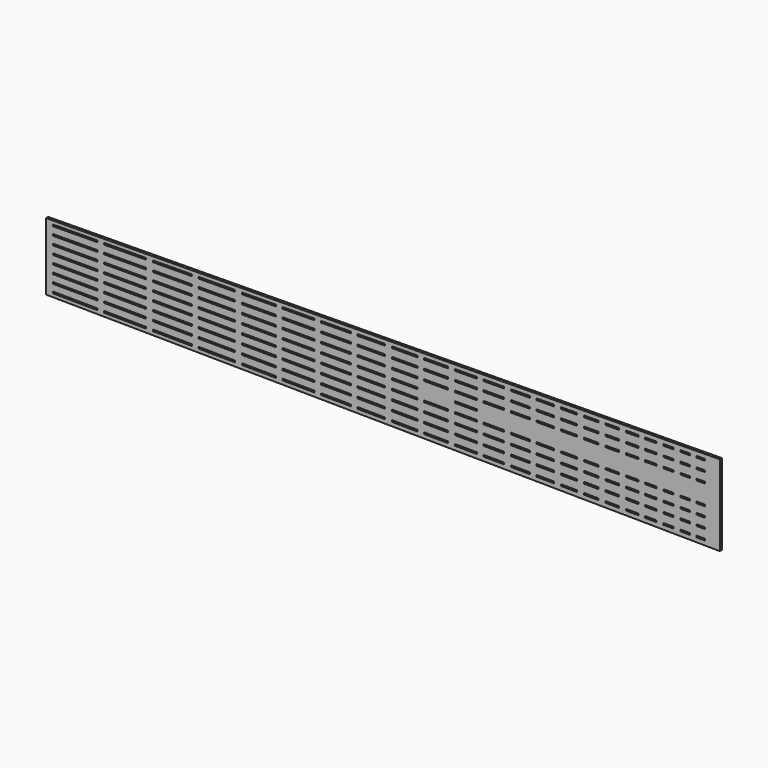
from build123d import *

# Parameters (mm, degrees)
F2_DEPTH = 2.54
F3_DEPTH = 2.541


with BuildPart() as f2:
    # F1 (on Front) → F2 (new body)
    with BuildSketch(Plane.XZ):
        Polygon((0, 63.5), (0, 0), (635, -6.35), (635, 69.85), align=None)
    extrude(amount=F2_DEPTH)

    # F0 (on Front) → F3 (cut, through all)
    with BuildSketch(Plane.XZ):
        Polygon((6.356313, 4.676161), (6.349766, 3.914189), (6.343218, 3.152218), (48.462077, 2.79031), (48.468624, 3.552282), (48.475172, 4.314254), align=None)
        Polygon((54.824937, 4.259693), (54.81839, 3.497721), (54.811843, 2.735749), (94.209598, 2.397223), (94.216146, 3.159195), (94.222693, 3.921167), align=None)
        Polygon((100.572458, 3.866606), (100.565911, 3.104634), (100.559364, 2.342662), (137.390595, 2.026189), (137.397142, 2.78816), (137.40369, 3.550132), align=None)
        Polygon((143.753455, 3.495572), (143.746908, 2.7336), (143.740361, 1.971628), (178.139784, 1.67605), (178.146331, 2.438022), (178.152879, 3.199994), align=None)
        Polygon((184.502644, 3.145433), (184.496097, 2.383461), (184.48955, 1.621489), (216.616925, 1.345434), (216.623473, 2.107406), (216.63002, 2.869377), align=None)
        Polygon((222.979785, 2.814817), (222.973238, 2.052845), (222.966691, 1.290873), (252.92651, 1.033442), (252.933058, 1.795414), (252.939605, 2.557386), align=None)
        Polygon((259.289371, 2.502826), (259.282823, 1.740854), (259.276276, 0.978882), (287.198939, 0.738955), (287.205486, 1.500927), (287.212033, 2.262899), align=None)
        Polygon((293.561799, 2.208339), (293.555251, 1.446367), (293.548704, 0.684395), (319.547337, 0.461001), (319.553884, 1.222973), (319.560431, 1.984945), align=None)
        Polygon((325.910197, 1.930384), (325.90365, 1.168412), (325.897102, 0.40644), (350.080515, 0.198643), (350.087062, 0.960615), (350.093609, 1.722587), align=None)
        Polygon((356.443375, 1.668027), (356.436828, 0.906055), (356.43028, 0.144083), (378.900374, -0.048992), (378.906921, 0.71298), (378.913468, 1.474952), align=None)
        Polygon((385.263234, 1.420391), (385.256687, 0.658419), (385.250139, -0.103553), (406.101906, -0.282722), (406.108453, 0.47925), (406.115001, 1.241222), align=None)
        Polygon((412.464766, 1.186661), (412.458219, 0.424689), (412.451672, -0.337283), (431.777513, -0.503341), (431.784061, 0.258631), (431.790608, 1.020603), align=None)
        Polygon((438.140374, 0.966042), (438.133826, 0.204071), (438.127279, -0.557901), (456.011826, -0.711575), (456.018373, 0.050397), (456.02492, 0.812369), align=None)
        Polygon((462.374686, 0.757808), (462.368138, -0.004164), (462.361591, -0.766135), (478.886018, -0.908122), (478.892565, -0.14615), (478.899112, 0.615822), align=None)
        Polygon((485.248878, 0.561261), (485.242331, -0.200711), (485.235784, -0.962683), (500.476085, -1.093635), (500.482632, -0.331664), (500.489179, 0.430308), align=None)
        Polygon((506.838945, 0.375748), (506.832397, -0.386224), (506.82585, -1.148196), (520.854565, -1.268738), (520.861112, -0.506766), (520.86766, 0.255205), align=None)
        Polygon((527.217425, 0.200645), (527.210878, -0.561327), (527.204331, -1.323299), (540.088818, -1.434009), (540.095365, -0.672037), (540.101912, 0.089935), align=None)
        Polygon((546.451678, 0.035374), (546.445131, -0.726598), (546.438583, -1.48857), (558.244474, -1.590012), (558.251021, -0.82804), (558.257569, -0.066069), align=None)
        Polygon((564.607334, -0.120629), (564.600787, -0.882601), (564.59424, -1.644573), (575.380256, -1.737252), (575.386804, -0.97528), (575.393351, -0.213308), align=None)
        Polygon((581.743116, -0.267869), (581.736569, -1.029841), (581.730022, -1.791813), (591.554887, -1.876233), (591.561434, -1.114261), (591.567982, -0.352289), align=None)
        Polygon((597.917747, -0.40685), (597.9112, -1.168822), (597.904653, -1.930794), (606.821044, -2.007408), (606.827592, -1.245436), (606.834139, -0.483464), align=None)
        Polygon((613.183905, -0.538025), (613.177357, -1.299997), (613.17081, -2.061969), (621.231406, -2.13123), (621.237953, -1.369258), (621.2445, -0.607286), align=None)
        Polygon((6.354557, 12.629264), (6.34988, 11.867278), (6.345204, 11.105293), (48.464824, 10.846787), (48.469501, 11.608773), (48.474177, 12.370758), align=None)
        Polygon((54.824058, 12.331786), (54.819381, 11.569801), (54.814705, 10.807815), (94.213173, 10.566011), (94.217849, 11.327996), (94.222526, 12.089982), align=None)
        Polygon((100.572406, 12.05101), (100.56773, 11.289024), (100.563053, 10.527039), (137.39495, 10.300986), (137.399627, 11.062972), (137.404303, 11.824957), align=None)
        Polygon((143.754184, 11.785986), (143.749507, 11.024), (143.74483, 10.262014), (178.144876, 10.050887), (178.149552, 10.812873), (178.154229, 11.574858), align=None)
        Polygon((184.504109, 11.535886), (184.499433, 10.773901), (184.494756, 10.011915), (216.622713, 9.814733), (216.627389, 10.576718), (216.632066, 11.338704), align=None)
        Polygon((222.981946, 11.299732), (222.97727, 10.537746), (222.972593, 9.775761), (252.932954, 9.591882), (252.937631, 10.353867), (252.942308, 11.115853), align=None)
        Polygon((259.292188, 11.076881), (259.287511, 10.314896), (259.282835, 9.55291), (287.206002, 9.381534), (287.210679, 10.14352), (287.215355, 10.905505), align=None)
        Polygon((293.565236, 10.866533), (293.560559, 10.104548), (293.555883, 9.342562), (319.554985, 9.182995), (319.559662, 9.94498), (319.564339, 10.706966), align=None)
        Polygon((325.914219, 10.667994), (325.909542, 9.906009), (325.904866, 9.144023), (350.088715, 8.995597), (350.093392, 9.757582), (350.098069, 10.519568), align=None)
        Polygon((356.447949, 10.480596), (356.443272, 9.718611), (356.438596, 8.956625), (378.909095, 8.818714), (378.913772, 9.5807), (378.918449, 10.342685), align=None)
        Polygon((385.268329, 10.303714), (385.263652, 9.541728), (385.258976, 8.779742), (406.11112, 8.651764), (406.115796, 9.41375), (406.120473, 10.175735), align=None)
        Polygon((412.470353, 10.136764), (412.465677, 9.374778), (412.461, 8.612792), (431.787191, 8.494179), (431.791868, 9.256165), (431.796544, 10.018151), align=None)
        Polygon((438.146425, 9.979179), (438.141748, 9.217193), (438.137072, 8.455208), (456.021941, 8.345441), (456.026618, 9.107426), (456.031295, 9.869412), align=None)
        Polygon((462.381175, 9.83044), (462.376499, 9.068455), (462.371822, 8.306469), (478.896547, 8.20505), (478.901224, 8.967036), (478.905901, 9.729021), align=None)
        Polygon((485.255781, 9.690049), (485.251105, 8.928064), (485.246428, 8.166078), (500.487004, 8.07254), (500.491681, 8.834526), (500.496358, 9.596512), align=None)
        Polygon((506.846238, 9.55754), (506.841561, 8.795554), (506.836885, 8.033569), (520.865853, 7.947467), (520.87053, 8.709453), (520.875207, 9.471438), align=None)
        Polygon((527.225087, 9.432466), (527.22041, 8.670481), (527.215734, 7.908495), (540.100454, 7.829416), (540.105131, 8.591402), (540.109807, 9.353388), align=None)
        Polygon((546.459688, 9.314416), (546.455011, 8.55243), (546.450334, 7.790444), (558.256438, 7.717985), (558.261115, 8.479971), (558.265792, 9.241957), align=None)
        Polygon((564.615672, 9.202985), (564.610995, 8.440999), (564.606319, 7.679014), (575.39253, 7.612814), (575.397207, 8.3748), (575.401884, 9.136786), align=None)
        Polygon((581.751764, 9.097814), (581.747088, 8.335828), (581.742411, 7.573842), (591.567454, 7.513542), (591.57213, 8.275528), (591.576807, 9.037513), align=None)
        Polygon((597.926688, 8.998541), (597.922011, 8.236556), (597.917334, 7.47457), (606.833887, 7.419846), (606.838564, 8.181831), (606.84324, 8.943817), align=None)
        Polygon((613.193121, 8.904845), (613.188444, 8.142859), (613.183768, 7.380874), (621.244509, 7.331402), (621.249186, 8.093387), (621.253862, 8.855373), align=None)
        Polygon((6.352763, 20.582362), (6.349957, 19.820367), (6.347151, 19.058372), (48.467279, 18.903269), (48.470085, 19.665264), (48.472891, 20.427258), align=None)
        Polygon((54.822848, 20.403875), (54.820042, 19.64188), (54.817236, 18.879886), (94.216179, 18.734803), (94.218985, 19.496798), (94.221791, 20.258793), align=None)
        Polygon((100.571748, 20.235409), (100.568942, 19.473415), (100.566136, 18.71142), (137.398477, 18.575788), (137.401283, 19.337783), (137.404089, 20.099778), align=None)
        Polygon((143.754046, 20.076395), (143.75124, 19.3144), (143.748434, 18.552405), (178.148894, 18.425729), (178.1517, 19.187724), (178.154506, 19.949718), align=None)
        Polygon((184.504463, 19.926335), (184.501657, 19.164341), (184.498851, 18.402346), (216.627194, 18.284036), (216.63, 19.046031), (216.632806, 19.808026), align=None)
        Polygon((222.982763, 19.784643), (222.979957, 19.022648), (222.977151, 18.260653), (252.937874, 18.150326), (252.94068, 18.91232), (252.943486, 19.674315), align=None)
        Polygon((259.293443, 19.650932), (259.290637, 18.888937), (259.287831, 18.126942), (287.211335, 18.024117), (287.214141, 18.786112), (287.216947, 19.548107), align=None)
        Polygon((293.566904, 19.524723), (293.564098, 18.762729), (293.561292, 18.000734), (319.560708, 17.904993), (319.563514, 18.666988), (319.56632, 19.428983), align=None)
        Polygon((325.916277, 19.4056), (325.913471, 18.643605), (325.910665, 17.88161), (350.094806, 17.792555), (350.097612, 18.554549), (350.100418, 19.316544), align=None)
        Polygon((356.450375, 19.293161), (356.447569, 18.531166), (356.444763, 17.769171), (378.915533, 17.686425), (378.918339, 18.44842), (378.921145, 19.210415), align=None)
        Polygon((385.271102, 19.187032), (385.268296, 18.425037), (385.26549, 17.663042), (406.117885, 17.586255), (406.120691, 18.34825), (406.123497, 19.110245), align=None)
        Polygon((412.473454, 19.086862), (412.470648, 18.324867), (412.467842, 17.562872), (431.794266, 17.491704), (431.797072, 18.253699), (431.799878, 19.015694), align=None)
        Polygon((438.149835, 18.992311), (438.147029, 18.230316), (438.144223, 17.468321), (456.029309, 17.402461), (456.032115, 18.164456), (456.034921, 18.926451), align=None)
        Polygon((462.384878, 18.903068), (462.382072, 18.141073), (462.379266, 17.379078), (478.904191, 17.318226), (478.906997, 18.080221), (478.909803, 18.842216), align=None)
        Polygon((485.25976, 18.818833), (485.256954, 18.056838), (485.254148, 17.294843), (500.494908, 17.238721), (500.497714, 18.000716), (500.50052, 18.76271), align=None)
        Polygon((506.850477, 18.739327), (506.847671, 17.977332), (506.844865, 17.215338), (520.874002, 17.163677), (520.876808, 17.925672), (520.879614, 18.687666), align=None)
        Polygon((527.229571, 18.664283), (527.226765, 17.902288), (527.223959, 17.140294), (540.108835, 17.092846), (540.111641, 17.854841), (540.114447, 18.616836), align=None)
        Polygon((546.464404, 18.593453), (546.461598, 17.831458), (546.458792, 17.069463), (558.265038, 17.025988), (558.267844, 17.787983), (558.27065, 18.549978), align=None)
        Polygon((564.620607, 18.526594), (564.617801, 17.7646), (564.614995, 17.002605), (575.401337, 16.962885), (575.404143, 17.72488), (575.406949, 18.486875), align=None)
        Polygon((581.756906, 18.463492), (581.7541, 17.701497), (581.751294, 16.939502), (591.576455, 16.903322), (591.579261, 17.665317), (591.582067, 18.427311), align=None)
        Polygon((597.932024, 18.403928), (597.929218, 17.641934), (597.926412, 16.879939), (606.843072, 16.847104), (606.845878, 17.609099), (606.848684, 18.371094), align=None)
        Polygon((613.198641, 18.34771), (613.195835, 17.585716), (613.193029, 16.823721), (621.253868, 16.794038), (621.256674, 17.556032), (621.25948, 18.318027), align=None)
        Polygon((6.350931, 28.535455), (6.349995, 27.773456), (6.34906, 27.011456), (48.469442, 26.959755), (48.470377, 27.721755), (48.471312, 28.483754), align=None)
        Polygon((54.821308, 28.47596), (54.820372, 27.71396), (54.819437, 26.951961), (94.218617, 26.9036), (94.219553, 27.665599), (94.220488, 28.427599), align=None)
        Polygon((100.570483, 28.419804), (100.569548, 27.657805), (100.568613, 26.895805), (137.401176, 26.850595), (137.402111, 27.612594), (137.403046, 28.374594), align=None)
        Polygon((143.753041, 28.366799), (143.752106, 27.6048), (143.751171, 26.842801), (178.151838, 26.800575), (178.152773, 27.562575), (178.153709, 28.324574), align=None)
        Polygon((184.503704, 28.31678), (184.502769, 27.55478), (184.501833, 26.792781), (216.630371, 26.753344), (216.631306, 27.515344), (216.632241, 28.277343), align=None)
        Polygon((222.982237, 28.269549), (222.981301, 27.507549), (222.980366, 26.74555), (252.941269, 26.708774), (252.942204, 27.470773), (252.94314, 28.232773), align=None)
        Polygon((259.293135, 28.224979), (259.292199, 27.462979), (259.291264, 26.70098), (287.214936, 26.666704), (287.215872, 27.428704), (287.216807, 28.190703), align=None)
        Polygon((293.566802, 28.182909), (293.565867, 27.42091), (293.564932, 26.65891), (319.564504, 26.626997), (319.56544, 27.388996), (319.566375, 28.150996), align=None)
        Polygon((325.91637, 28.143201), (325.915435, 27.381202), (325.9145, 26.619202), (350.098787, 26.589517), (350.099722, 27.351516), (350.100657, 28.113516), align=None)
        Polygon((356.450652, 28.105722), (356.449717, 27.343722), (356.448782, 26.581723), (378.919688, 26.554141), (378.920623, 27.31614), (378.921558, 28.078139), align=None)
        Polygon((385.271553, 28.070345), (385.270618, 27.308346), (385.269683, 26.546346), (406.122204, 26.520751), (406.123139, 27.28275), (406.124074, 28.044749), align=None)
        Polygon((412.474069, 28.036955), (412.473134, 27.274956), (412.472199, 26.512956), (431.798739, 26.489234), (431.799675, 27.251233), (431.80061, 28.013232), align=None)
        Polygon((438.150605, 28.005438), (438.14967, 27.243439), (438.148735, 26.481439), (456.033928, 26.459486), (456.034863, 27.221485), (456.035799, 27.983485), align=None)
        Polygon((462.385794, 27.97569), (462.384858, 27.213691), (462.383923, 26.451691), (478.908947, 26.431408), (478.909883, 27.193407), (478.910818, 27.955407), align=None)
        Polygon((485.260813, 27.947612), (485.259878, 27.185613), (485.258943, 26.423613), (500.499795, 26.404906), (500.50073, 27.166905), (500.501665, 27.928905), align=None)
        Polygon((506.851661, 27.92111), (506.850725, 27.159111), (506.84979, 26.397111), (520.879012, 26.379891), (520.879948, 27.141891), (520.880883, 27.90389), align=None)
        Polygon((527.230878, 27.896096), (527.229943, 27.134096), (527.229007, 26.372097), (540.113961, 26.356281), (540.114896, 27.11828), (540.115831, 27.88028), align=None)
        Polygon((546.465826, 27.872485), (546.464891, 27.110486), (546.463956, 26.348487), (558.270273, 26.333995), (558.271209, 27.095994), (558.272144, 27.857994), align=None)
        Polygon((564.622139, 27.850199), (564.621204, 27.0882), (564.620269, 26.3262), (575.406675, 26.312961), (575.407611, 27.07496), (575.408546, 27.836959), align=None)
        Polygon((581.758541, 27.829165), (581.757606, 27.067166), (581.75667, 26.305166), (591.581891, 26.293106), (591.582826, 27.055106), (591.583762, 27.817105), align=None)
        Polygon((597.933757, 27.809311), (597.932822, 27.047311), (597.931886, 26.285312), (606.8486, 26.274367), (606.849536, 27.036366), (606.850471, 27.798366), align=None)
        Polygon((613.200466, 27.790571), (613.199531, 27.028572), (613.198596, 26.266572), (621.259483, 26.256678), (621.260418, 27.018677), (621.261353, 27.780677), align=None)
        Polygon((216.63, 44.453969), (216.627194, 45.215964), (184.498851, 45.097654), (184.501657, 44.335659), (184.504463, 43.573665), (216.632806, 43.691974), align=None)
        Polygon((94.216146, 60.340805), (94.209598, 61.102777), (54.811843, 60.764251), (54.81839, 60.002279), (54.824937, 59.240307), (94.222693, 59.578833), align=None)
        Polygon((48.468624, 59.947718), (48.462077, 60.70969), (6.343218, 60.347782), (6.349766, 59.585811), (6.356313, 58.823839), (48.475172, 59.185746), align=None)
        Polygon((184.504109, 51.964114), (216.632066, 52.161296), (216.627389, 52.923282), (216.622713, 53.685267), (184.494756, 53.488085), (184.499433, 52.726099), align=None)
        Polygon((325.914219, 52.832006), (350.098069, 52.980432), (350.093392, 53.742418), (350.088715, 54.504403), (325.904866, 54.355977), (325.909542, 53.593991), align=None)
        Polygon((356.438596, 54.543375), (356.443272, 53.781389), (356.447949, 53.019404), (378.918449, 53.157315), (378.913772, 53.9193), (378.909095, 54.681286), align=None)
        Polygon((6.347151, 44.441628), (6.349957, 43.679633), (6.352763, 42.917638), (48.472891, 43.072742), (48.470085, 43.834736), (48.467279, 44.596731), align=None)
        Polygon((100.559364, 61.157338), (100.565911, 60.395366), (100.572458, 59.633394), (137.40369, 59.949868), (137.397142, 60.71184), (137.390595, 61.473811), align=None)
        Polygon((325.910665, 45.61839), (325.913471, 44.856395), (325.916277, 44.0944), (350.100418, 44.183456), (350.097612, 44.945451), (350.094806, 45.707445), align=None)
        Polygon((319.559662, 53.55502), (319.554985, 54.317005), (293.555883, 54.157438), (293.560559, 53.395452), (293.565236, 52.633467), (319.564339, 52.793034), align=None)
        Polygon((540.105131, 54.908598), (540.100454, 55.670584), (527.215734, 55.591505), (527.22041, 54.829519), (527.225087, 54.067534), (540.109807, 54.146612), align=None)
        Polygon((54.824058, 51.168214), (94.222526, 51.410018), (94.217849, 52.172004), (94.213173, 52.933989), (54.814705, 52.692185), (54.819381, 51.930199), align=None)
        Polygon((412.467842, 45.937128), (412.470648, 45.175133), (412.473454, 44.413138), (431.799878, 44.484306), (431.797072, 45.246301), (431.794266, 46.008296), align=None)
        Polygon((520.87053, 54.790547), (520.865853, 55.552533), (506.836885, 55.466431), (506.841561, 54.704446), (506.846238, 53.94246), (520.875207, 54.028562), align=None)
        Polygon((259.292188, 52.423119), (287.215355, 52.594495), (287.210679, 53.35648), (287.206002, 54.118466), (259.282835, 53.94709), (259.287511, 53.185104), align=None)
        Polygon((546.450334, 55.709556), (546.455011, 54.94757), (546.459688, 54.185584), (558.265792, 54.258043), (558.261115, 55.020029), (558.256438, 55.782015), align=None)
        Polygon((606.838564, 55.318169), (606.833887, 56.080154), (597.917334, 56.02543), (597.922011, 55.263444), (597.926688, 54.501459), (606.84324, 54.556183), align=None)
        Polygon((613.193029, 46.676279), (613.195835, 45.914284), (613.198641, 45.15229), (621.25948, 45.181973), (621.256674, 45.943968), (621.253868, 46.705962), align=None)
        Polygon((184.501833, 36.707219), (184.502769, 35.94522), (184.503704, 35.18322), (216.632241, 35.222657), (216.631306, 35.984656), (216.630371, 36.746656), align=None)
        Polygon((462.384878, 44.596932), (478.909803, 44.657784), (478.906997, 45.419779), (478.904191, 46.181774), (462.379266, 46.120922), (462.382072, 45.358927), align=None)
        Polygon((178.149552, 52.687127), (178.144876, 53.449113), (143.74483, 53.237986), (143.749507, 52.476), (143.754184, 51.714014), (178.154229, 51.925142), align=None)
        Polygon((6.354557, 50.870736), (48.474177, 51.129242), (48.469501, 51.891227), (48.464824, 52.653213), (6.345204, 52.394707), (6.34988, 51.632722), align=None)
        Polygon((178.152773, 35.937425), (178.151838, 36.699425), (143.751171, 36.657199), (143.752106, 35.8952), (143.753041, 35.133201), (178.153709, 35.175426), align=None)
        Polygon((478.901224, 54.532964), (478.896547, 55.29495), (462.371822, 55.193531), (462.376499, 54.431545), (462.381175, 53.66956), (478.905901, 53.770979), align=None)
        Polygon((100.571748, 43.264591), (137.404089, 43.400222), (137.401283, 44.162217), (137.398477, 44.924212), (100.566136, 44.78858), (100.568942, 44.026585), align=None)
        Polygon((293.561292, 45.499266), (293.564098, 44.737271), (293.566904, 43.975277), (319.56632, 44.071017), (319.563514, 44.833012), (319.560708, 45.595007), align=None)
        Polygon((259.287831, 45.373058), (259.290637, 44.611063), (259.293443, 43.849068), (287.216947, 43.951893), (287.214141, 44.713888), (287.211335, 45.475883), align=None)
        Polygon((222.977151, 45.239347), (222.979957, 44.477352), (222.982763, 43.715357), (252.943486, 43.825685), (252.94068, 44.58768), (252.937874, 45.349674), align=None)
        Polygon((606.845878, 45.890901), (606.843072, 46.652896), (597.926412, 46.620061), (597.929218, 45.858066), (597.932024, 45.096072), (606.848684, 45.128906), align=None)
        Polygon((54.817236, 44.620114), (54.820042, 43.85812), (54.822848, 43.096125), (94.221791, 43.241207), (94.218985, 44.003202), (94.216179, 44.765197), align=None)
        Polygon((581.730022, 65.291813), (581.736569, 64.529841), (581.743116, 63.767869), (591.567982, 63.852289), (591.561434, 64.614261), (591.554887, 65.376233), align=None)
        Polygon((184.502644, 60.354567), (216.63002, 60.630623), (216.623473, 61.392594), (216.616925, 62.154566), (184.48955, 61.878511), (184.496097, 61.116539), align=None)
        Polygon((54.821308, 35.02404), (94.220488, 35.072401), (94.219553, 35.834401), (94.218617, 36.5964), (54.819437, 36.548039), (54.820372, 35.78604), align=None)
        Polygon((143.748434, 44.947595), (143.75124, 44.1856), (143.754046, 43.423605), (178.154506, 43.550282), (178.1517, 44.312276), (178.148894, 45.074271), align=None)
        Polygon((575.404143, 45.77512), (575.401337, 46.537115), (564.614995, 46.497395), (564.617801, 45.7354), (564.620607, 44.973406), (575.406949, 45.013125), align=None)
        Polygon((500.491681, 54.665474), (500.487004, 55.42746), (485.246428, 55.333922), (485.251105, 54.571936), (485.255781, 53.809951), (500.496358, 53.903488), align=None)
        Polygon((438.137072, 55.044792), (438.141748, 54.282807), (438.146425, 53.520821), (456.031295, 53.630588), (456.026618, 54.392574), (456.021941, 55.154559), align=None)
        Polygon((412.470353, 53.363236), (431.796544, 53.481849), (431.791868, 54.243835), (431.787191, 55.005821), (412.461, 54.887208), (412.465677, 54.125222), align=None)
        Polygon((575.386804, 64.47528), (575.380256, 65.237252), (564.59424, 65.144573), (564.600787, 64.382601), (564.607334, 63.620629), (575.393351, 63.713308), align=None)
        Polygon((6.350931, 34.964545), (48.471312, 35.016246), (48.470377, 35.778245), (48.469442, 36.540245), (6.34906, 36.488544), (6.349995, 35.726544), align=None)
        Polygon((456.032115, 45.335544), (456.029309, 46.097539), (438.144223, 46.031679), (438.147029, 45.269684), (438.149835, 44.507689), (456.034921, 44.573549), align=None)
        Polygon((137.402111, 35.887406), (137.401176, 36.649405), (100.568613, 36.604195), (100.569548, 35.842195), (100.570483, 35.080196), (137.403046, 35.125406), align=None)
        Polygon((385.250139, 63.603553), (385.256687, 62.841581), (385.263234, 62.079609), (406.115001, 62.258778), (406.108453, 63.02075), (406.101906, 63.782722), align=None)
        Polygon((293.548704, 62.815605), (293.555251, 62.053633), (293.561799, 61.291661), (319.560431, 61.515055), (319.553884, 62.277027), (319.547337, 63.038999), align=None)
        Polygon((385.258976, 54.720258), (385.263652, 53.958272), (385.268329, 53.196286), (406.120473, 53.324265), (406.115796, 54.08625), (406.11112, 54.848236), align=None)
        Polygon((100.563053, 52.972961), (100.56773, 52.210976), (100.572406, 51.44899), (137.404303, 51.675043), (137.399627, 52.437028), (137.39495, 53.199014), align=None)
        Polygon((613.183768, 56.119126), (613.188444, 55.357141), (613.193121, 54.595155), (621.253862, 54.644627), (621.249186, 55.406613), (621.244509, 56.168598), align=None)
        Polygon((606.827592, 64.745436), (606.821044, 65.507408), (597.904653, 65.430794), (597.9112, 64.668822), (597.917747, 63.90685), (606.834139, 63.983464), align=None)
        Polygon((520.861112, 64.006766), (520.854565, 64.768738), (506.82585, 64.648196), (506.832397, 63.886224), (506.838945, 63.124252), (520.86766, 63.244795), align=None)
        Polygon((527.223959, 46.359706), (527.226765, 45.597712), (527.229571, 44.835717), (540.114447, 44.883164), (540.111641, 45.645159), (540.108835, 46.407154), align=None)
        Polygon((581.742411, 55.926158), (581.747088, 55.164172), (581.751764, 54.402186), (591.576807, 54.462487), (591.57213, 55.224472), (591.567454, 55.986458), align=None)
        Polygon((575.397207, 55.1252), (575.39253, 55.887186), (564.606319, 55.820986), (564.610995, 55.059001), (564.615672, 54.297015), (575.401884, 54.363214), align=None)
        Polygon((520.876808, 45.574328), (520.874002, 46.336323), (506.844865, 46.284662), (506.847671, 45.522668), (506.850477, 44.760673), (520.879614, 44.812334), align=None)
        Polygon((438.127279, 64.057901), (438.133826, 63.295929), (438.140374, 62.533958), (456.02492, 62.687631), (456.018373, 63.449603), (456.011826, 64.211575), align=None)
        Polygon((385.271102, 44.312968), (406.123497, 44.389755), (406.120691, 45.15175), (406.117885, 45.913745), (385.26549, 45.836958), (385.268296, 45.074963), align=None)
        Polygon((178.146331, 61.061978), (178.139784, 61.82395), (143.740361, 61.528372), (143.746908, 60.7664), (143.753455, 60.004428), (178.152879, 60.300006), align=None)
        Polygon((356.443375, 61.831973), (378.913468, 62.025048), (378.906921, 62.78702), (378.900374, 63.548992), (356.43028, 63.355917), (356.436828, 62.593945), align=None)
        Polygon((293.564932, 36.84109), (293.565867, 36.07909), (293.566802, 35.317091), (319.566375, 35.349004), (319.56544, 36.111004), (319.564504, 36.873003), align=None)
        Polygon((485.25976, 44.681167), (500.50052, 44.73729), (500.497714, 45.499284), (500.494908, 46.261279), (485.254148, 46.205157), (485.256954, 45.443162), align=None)
        Polygon((222.972593, 53.724239), (222.97727, 52.962254), (222.981946, 52.200268), (252.942308, 52.384147), (252.937631, 53.146133), (252.932954, 53.908118), align=None)
        Polygon((259.276276, 62.521118), (259.282823, 61.759146), (259.289371, 60.997174), (287.212033, 61.237101), (287.205486, 61.999073), (287.198939, 62.761045), align=None)
        Polygon((356.444763, 45.730829), (356.447569, 44.968834), (356.450375, 44.206839), (378.921145, 44.289585), (378.918339, 45.05158), (378.915533, 45.813575), align=None)
        Polygon((485.248878, 62.938739), (500.489179, 63.069692), (500.482632, 63.831664), (500.476085, 64.593635), (485.235784, 64.462683), (485.242331, 63.700711), align=None)
        Polygon((325.897102, 63.09356), (325.90365, 62.331588), (325.910197, 61.569616), (350.093609, 61.777413), (350.087062, 62.539385), (350.080515, 63.301357), align=None)
        Polygon((581.751294, 46.560498), (581.7541, 45.798503), (581.756906, 45.036508), (591.582067, 45.072689), (591.579261, 45.834683), (591.576455, 46.596678), align=None)
        Polygon((613.17081, 65.561969), (613.177357, 64.799997), (613.183905, 64.038025), (621.2445, 64.107286), (621.237953, 64.869258), (621.231406, 65.63123), align=None)
        Polygon((558.267844, 45.712017), (558.265038, 46.474012), (546.458792, 46.430537), (546.461598, 45.668542), (546.464404, 44.906547), (558.27065, 44.950022), align=None)
        Polygon((462.374686, 62.742192), (478.899112, 62.884178), (478.892565, 63.64615), (478.886018, 64.408122), (462.361591, 64.266135), (462.368138, 63.504164), align=None)
        Polygon((527.204331, 64.823299), (527.210878, 64.061327), (527.217425, 63.299355), (540.101912, 63.410065), (540.095365, 64.172037), (540.088818, 64.934009), align=None)
        Polygon((431.784061, 63.241369), (431.777513, 64.003341), (412.451672, 63.837283), (412.458219, 63.075311), (412.464766, 62.313339), (431.790608, 62.479397), align=None)
        Polygon((546.438583, 64.98857), (546.445131, 64.226598), (546.451678, 63.464626), (558.257569, 63.566069), (558.251021, 64.32804), (558.244474, 65.090012), align=None)
        Polygon((222.980366, 36.75445), (222.981301, 35.992451), (222.982237, 35.230451), (252.94314, 35.267227), (252.942204, 36.029227), (252.941269, 36.791226), align=None)
        Polygon((259.293135, 35.275021), (287.216807, 35.309297), (287.215872, 36.071296), (287.214936, 36.833296), (259.291264, 36.79902), (259.292199, 36.037021), align=None)
        Polygon((252.933058, 61.704586), (252.92651, 62.466558), (222.966691, 62.209127), (222.973238, 61.447155), (222.979785, 60.685183), (252.939605, 60.942614), align=None)
        Polygon((406.123139, 36.21725), (406.122204, 36.979249), (385.269683, 36.953654), (385.270618, 36.191654), (385.271553, 35.429655), (406.124074, 35.455251), align=None)
        Polygon((325.9145, 36.880798), (325.915435, 36.118798), (325.91637, 35.356799), (350.100657, 35.386484), (350.099722, 36.148484), (350.098787, 36.910483), align=None)
    extrude(amount=F3_DEPTH, mode=Mode.SUBTRACT)


solid = f2.part
